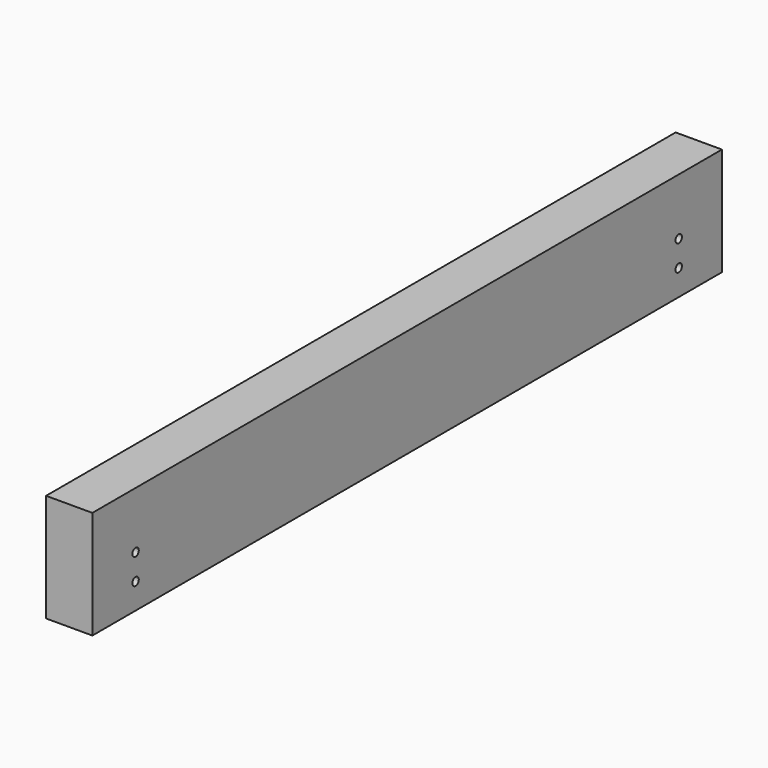
from build123d import *

# Parameters (mm, degrees)
F0_W     = 38.1
F0_H     = 88.9
F1_DEPTH = 647.7
F2_R     = 3.302
F3_DEPTH = 38.101


with BuildPart() as f1:
    # F0 (on Front) → F1 (new body)
    with BuildSketch(Plane.XZ):
        Rectangle(F0_W, F0_H)
    extrude(amount=F1_DEPTH)

    # F2 (on face) → F3 (cut, through all)
    with BuildSketch(Plane.YZ.offset(19.05)):
        with Locations((-603.25, -2.116667)):
            Circle(F2_R)
        with Locations((-603.25, -23.283333)):
            Circle(F2_R)
        with Locations((-44.45, -23.283333)):
            Circle(F2_R)
        with Locations((-44.45, -2.116667)):
            Circle(F2_R)
    extrude(amount=-F3_DEPTH, mode=Mode.SUBTRACT)


solid = f1.part
